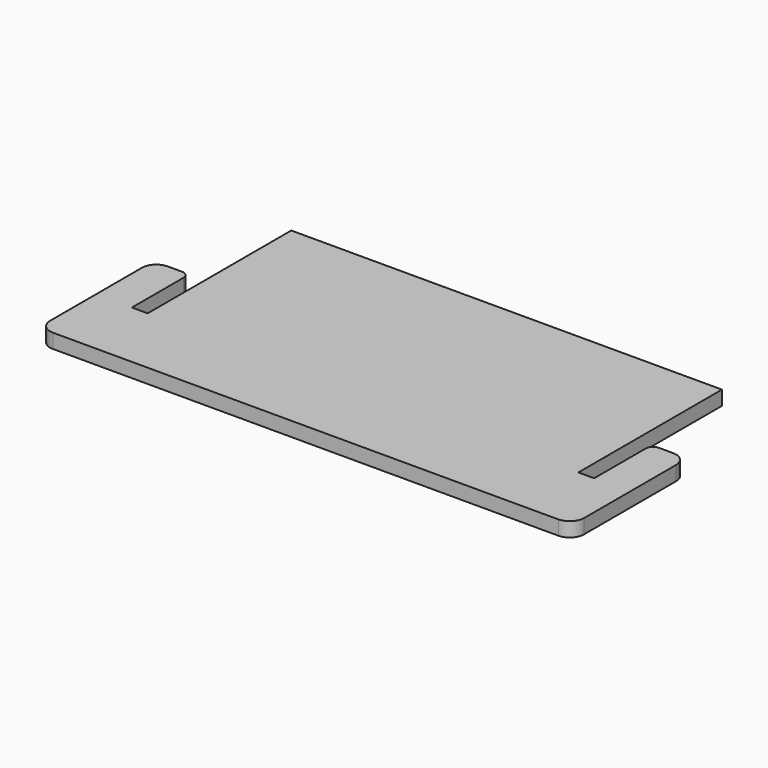
from build123d import *

# Parameters (mm, degrees)
F1_DEPTH = 2


with BuildPart() as f1:
    # F0 (on Top) → F1 (new body)
    with BuildSketch(Plane.XY):
        with BuildLine():
            Line((50.043919, -12.5435), (47.843919, -12.5435))
            Line((47.843919, -12.5435), (47.843919, -22.5435))
            Line((47.843919, -22.5435), (50.043919, -22.5435))
            Line((50.043919, -22.5435), (53.043919, -22.5435))
            ThreePointArc((53.043919, -22.5435), (54.458132, -21.957714), (55.043919, -20.5435))
            Line((55.043919, -20.5435), (55.043919, -4.5435))
            ThreePointArc((55.043919, -4.5435), (54.458132, -3.129287), (53.043919, -2.5435))
            Line((53.043919, -2.5435), (51.06561, -2.5435))
            ThreePointArc((51.06561, -2.5435), (50.343165, -2.842747), (50.043919, -3.565192))
            Line((50.043919, -3.565192), (50.043919, -12.5435))
        make_face()
        with BuildLine():
            Line((-12.156081, -22.5435), (-12.156081, -12.5435))
            Line((-12.156081, -12.5435), (-14.356081, -12.5435))
            Line((-14.356081, -12.5435), (-14.356081, -3.565192))
            ThreePointArc((-14.356081, -3.565192), (-14.655328, -2.842747), (-15.377772, -2.5435))
            Line((-15.377772, -2.5435), (-17.356081, -2.5435))
            ThreePointArc((-17.356081, -2.5435), (-18.770295, -3.129287), (-19.356081, -4.5435))
            Line((-19.356081, -4.5435), (-19.356081, -20.5435))
            ThreePointArc((-19.356081, -20.5435), (-18.770295, -21.957714), (-17.356081, -22.5435))
            Line((-17.356081, -22.5435), (-14.356081, -22.5435))
            Line((-14.356081, -22.5435), (-12.156081, -22.5435))
        make_face()
        Polygon((47.843919, 12.4565), (-12.156081, 12.4565), (-12.156081, -12.5435), (-12.156081, -22.5435), (47.843919, -22.5435), (47.843919, -12.5435), align=None)
    extrude(amount=F1_DEPTH)


solid = f1.part
